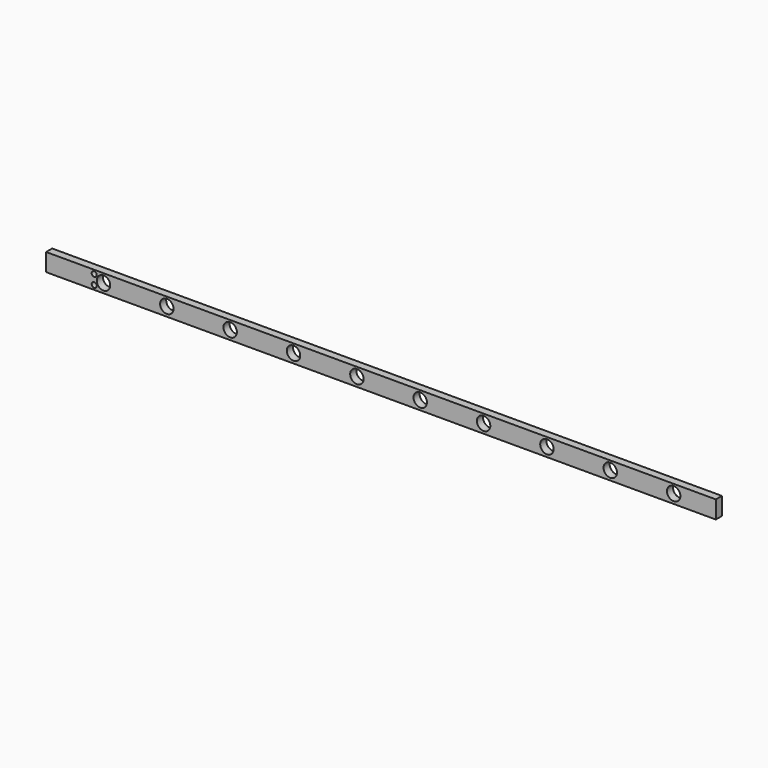
from build123d import *

# Parameters (mm, degrees)
F0_W     = 264.3
F0_H     = 7
F0_R     = 1
F0_R_2   = 2.65
F1_DEPTH = 3


with BuildPart() as f1:
    # F0 (on Front) → F1 (new body)
    with BuildSketch(Plane.XZ):
        with Locations((16.305556, -0.1)):
            Rectangle(F0_W, F0_H)
        with Locations((-96.844444, -1.9)):
            Circle(F0_R, mode=Mode.SUBTRACT)
        with Locations((-93.194444, 0)):
            Circle(F0_R_2, mode=Mode.SUBTRACT)
        with Locations((-68.194444, 0)):
            Circle(F0_R_2, mode=Mode.SUBTRACT)
        with Locations((-43.194444, 0)):
            Circle(F0_R_2, mode=Mode.SUBTRACT)
        with Locations((-18.194444, 0)):
            Circle(F0_R_2, mode=Mode.SUBTRACT)
        with Locations((6.805556, 0)):
            Circle(F0_R_2, mode=Mode.SUBTRACT)
        with Locations((-96.844444, 1.9)):
            Circle(F0_R, mode=Mode.SUBTRACT)
        with Locations((31.805556, 0)):
            Circle(F0_R_2, mode=Mode.SUBTRACT)
        with Locations((56.805556, 0)):
            Circle(F0_R_2, mode=Mode.SUBTRACT)
        with Locations((81.805556, 0)):
            Circle(F0_R_2, mode=Mode.SUBTRACT)
        with Locations((106.805556, 0)):
            Circle(F0_R_2, mode=Mode.SUBTRACT)
        with Locations((131.805556, 0)):
            Circle(F0_R_2, mode=Mode.SUBTRACT)
    extrude(amount=F1_DEPTH)


solid = f1.part
